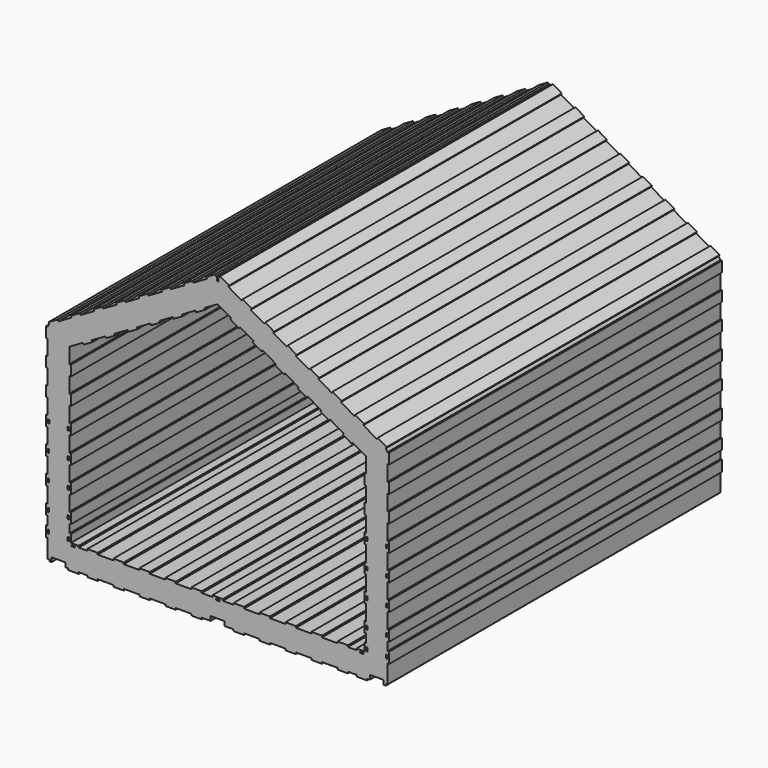
from build123d import *

# Parameters (mm, degrees)
F0_W     = 18
F0_H     = 40
F0_W_2   = 40
F0_H_2   = 13.258119
F0_W_3   = 19.326059
F1_DEPTH = 4800


with BuildPart() as f1:
    # F0 (on Front) → F1 (new body)
    with BuildSketch(Plane.XZ):
        Polygon((-357.766, -101.576782), (-357.766, -201.576782), (-375.766, -201.576782), (-375.766, -327.347782), (-357.766, -327.347782), (-357.766, -541.342782), (-337.766, -541.342782), (-337.766, -559.342782), (-312.766, -559.342782), (-312.766, -509.342782), (-152.766, -509.342782), (-152.766, -559.342782), (-120, -559.342782), (-120, -577.342782), (0, -577.342782), (0, -559.342782), (100, -559.342782), (100, -577.342782), (220, -577.342782), (220, -559.342782), (400, -559.342782), (400, -577.342782), (520, -577.342782), (520, -559.342782), (700, -559.342782), (700, -577.342782), (820, -577.342782), (820, -559.342782), (1000, -559.342782), (1000, -577.342782), (1120, -577.342782), (1120, -559.342782), (1300, -559.342782), (1300, -577.342782), (1420, -577.342782), (1420, -559.342782), (1523.32, -559.342782), (1523.32, -509.342782), (1603.318, -509.342782), (1683.316, -509.342782), (1683.316, -559.342782), (1786.636, -559.342782), (1786.636, -577.342782), (1906.636, -577.342782), (1906.636, -559.342782), (2086.636, -559.342782), (2086.636, -577.342782), (2206.636, -577.342782), (2206.636, -559.342782), (2386.636, -559.342782), (2386.636, -577.342782), (2506.636, -577.342782), (2506.636, -559.342782), (2686.636, -559.342782), (2686.636, -577.342782), (2806.636, -577.342782), (2806.636, -559.342782), (2986.636, -559.342782), (2986.636, -577.342782), (3106.636, -577.342782), (3106.636, -559.342782), (3206.636, -559.342782), (3206.636, -577.342782), (3326.636, -577.342782), (3326.636, -559.342782), (3359.402, -559.342782), (3359.402, -509.342782), (3519.402, -509.342782), (3519.402, -559.342782), (3544.402, -559.342782), (3544.402, -541.342782), (3564.402, -541.342782), (3564.402, -327.347782), (3582.402, -327.347782), (3582.402, -201.576782), (3564.402, -201.576782), (3564.402, -101.576782), (3582.402, -101.576782), (3582.402, 18.423218), (3564.402, 18.423218), (3564.402, 198.423218), (3582.402, 198.423218), (3582.402, 318.423218), (3564.402, 318.423218), (3564.402, 498.423218), (3582.402, 498.423218), (3582.402, 618.423218), (3564.402, 618.423218), (3564.402, 798.423218), (3582.402, 798.423218), (3582.402, 918.423218), (3564.402, 918.423218), (3564.402, 1098.423218), (3582.402, 1098.423218), (3582.402, 1218.423218), (3564.402, 1218.423218), (3564.402, 1398.423218), (3582.402, 1398.423218), (3582.402, 1518.423218), (3564.402, 1518.423218), (3564.402, 1698.423218), (3582.402, 1698.423218), (3582.402, 1818.423218), (3564.402, 1818.423218), (3545.147436, 1851.768334), (3554.147125, 1867.356971), (3450.222881, 1927.354899), (3441.223191, 1911.766263), (3285.336825, 2001.763155), (3294.336514, 2017.351792), (3190.41227, 2077.349721), (3181.41258, 2061.761084), (3025.526214, 2151.757977), (3034.525903, 2167.346614), (2930.601659, 2227.344542), (2921.60197, 2211.755906), (2765.715603, 2301.752798), (2774.715292, 2317.341435), (2670.791048, 2377.339364), (2661.791359, 2361.750727), (2505.904992, 2451.74762), (2514.904681, 2467.336257), (2410.980437, 2527.334185), (2401.980748, 2511.745549), (2246.094381, 2601.742441), (2255.094071, 2617.331078), (2151.169826, 2677.329007), (2142.170137, 2661.74037), (1986.28377, 2751.737263), (1995.28346, 2767.3259), (1891.359215, 2827.323828), (1882.359526, 2811.735192), (1726.47316, 2901.732084), (1735.472849, 2917.320721), (1631.548604, 2977.31865), (1622.548915, 2961.730013), (1612.301119, 2967.646309), (1612.301119, 2917.651309), (1603.334881, 2917.651309), (1603.301119, 2917.651309), (1594.334881, 2917.651309), (1594.334881, 2967.646309), (1584.087085, 2961.730013), (1575.087396, 2977.31865), (1471.163151, 2917.320721), (1480.16284, 2901.732084), (1324.276474, 2811.735192), (1315.276785, 2827.323828), (1211.35254, 2767.3259), (1220.35223, 2751.737263), (1064.465863, 2661.74037), (1055.466174, 2677.329007), (951.541929, 2617.331078), (960.541619, 2601.742441), (804.655252, 2511.745549), (795.655563, 2527.334185), (691.731319, 2467.336257), (700.731008, 2451.74762), (544.844641, 2361.750727), (535.844952, 2377.339364), (431.920708, 2317.341435), (440.920397, 2301.752798), (285.03403, 2211.755906), (276.034341, 2227.344542), (172.110097, 2167.346614), (181.109786, 2151.757977), (25.22342, 2061.761084), (16.22373, 2077.349721), (-87.700514, 2017.351792), (-78.700825, 2001.763155), (-234.587191, 1911.766263), (-243.586881, 1927.354899), (-347.511125, 1867.356971), (-338.511436, 1851.768334), (-357.766, 1818.423218), (-375.766, 1818.423218), (-375.766, 1698.423218), (-357.766, 1698.423218), (-357.766, 1518.423218), (-375.766, 1518.423218), (-375.766, 1398.423218), (-357.766, 1398.423218), (-357.766, 1218.423218), (-375.766, 1218.423218), (-375.766, 1098.423218), (-357.766, 1098.423218), (-357.766, 918.423218), (-375.766, 918.423218), (-375.766, 798.423218), (-357.766, 798.423218), (-357.766, 618.423218), (-375.766, 618.423218), (-375.766, 498.423218), (-357.766, 498.423218), (-357.766, 318.423218), (-375.766, 318.423218), (-375.766, 198.423218), (-357.766, 198.423218), (-357.766, 18.423218), (-375.766, 18.423218), (-375.766, -101.576782), align=None)
        with Locations((-348.766, -261.576782)):
            Rectangle(F0_W, F0_H, mode=Mode.SUBTRACT)
        with Locations((-60, -315.971841)):
            Rectangle(F0_W_2, F0_H_2, mode=Mode.SUBTRACT)
        with Locations((-116.766, -261.576782)):
            Rectangle(F0_W, F0_H, mode=Mode.SUBTRACT)
        with Locations((-348.766, -41.576782)):
            Rectangle(F0_W, F0_H, mode=Mode.SUBTRACT)
        with Locations((-116.766, -41.576782)):
            Rectangle(F0_W, F0_H, mode=Mode.SUBTRACT)
        with Locations((-348.766, 258.423218)):
            Rectangle(F0_W, F0_H, mode=Mode.SUBTRACT)
        with Locations((-116.766, 258.423218)):
            Rectangle(F0_W, F0_H, mode=Mode.SUBTRACT)
        with Locations((-348.766, 558.423218)):
            Rectangle(F0_W, F0_H, mode=Mode.SUBTRACT)
        with Locations((-116.766, 558.423218)):
            Rectangle(F0_W, F0_H, mode=Mode.SUBTRACT)
        with Locations((-348.10297, 858.423218)):
            Rectangle(F0_W_3, F0_H, mode=Mode.SUBTRACT)
        with Locations((-116.766, 858.423218)):
            Rectangle(F0_W, F0_H, mode=Mode.SUBTRACT)
        Polygon((1583.318, -327.342782), (1583.318, -309.342782), (1603.318, -309.342782), (1623.318, -309.342782), (1623.318, -327.342782), (1603.318, -327.342782), align=None, mode=Mode.SUBTRACT)
        with Locations((3266.636, -315.971841)):
            Rectangle(F0_W_2, F0_H_2, mode=Mode.SUBTRACT)
        with Locations((3323.402, -261.576782)):
            Rectangle(F0_W, F0_H, mode=Mode.SUBTRACT)
        with Locations((3555.402, -261.576782)):
            Rectangle(F0_W, F0_H, mode=Mode.SUBTRACT)
        with Locations((3323.402, -41.576782)):
            Rectangle(F0_W, F0_H, mode=Mode.SUBTRACT)
        with Locations((3555.402, -41.576782)):
            Rectangle(F0_W, F0_H, mode=Mode.SUBTRACT)
        with Locations((3323.402, 258.423218)):
            Rectangle(F0_W, F0_H, mode=Mode.SUBTRACT)
        with Locations((3555.402, 258.423218)):
            Rectangle(F0_W, F0_H, mode=Mode.SUBTRACT)
        Polygon((-89.766, -291.342782), (-89.766, -201.576782), (-107.766, -201.576782), (-107.766, -101.576782), (-89.766, -101.576782), (-89.766, 18.423218), (-107.766, 18.423218), (-107.766, 198.423218), (-89.766, 198.423218), (-89.766, 318.423218), (-107.766, 318.423218), (-107.766, 498.423218), (-89.766, 498.423218), (-89.766, 618.423218), (-107.766, 618.423218), (-107.766, 798.423218), (-89.766, 798.423218), (-89.766, 918.423218), (-107.766, 918.423218), (-107.766, 1098.423218), (-89.766, 1098.423218), (-89.766, 1218.423218), (-107.766, 1218.423218), (-107.766, 1398.423218), (-89.766, 1398.423218), (-89.766, 1518.423218), (-107.766, 1518.423218), (-107.766, 1696.311328), (46.29486, 1785.254313), (55.294549, 1769.665676), (159.218793, 1829.663605), (150.219104, 1845.252242), (306.105471, 1935.249135), (315.10516, 1919.660498), (419.029404, 1979.658426), (410.029715, 1995.247063), (565.916082, 2085.243956), (574.915771, 2069.655319), (678.840015, 2129.653248), (669.840326, 2145.241885), (825.726692, 2235.238778), (834.726382, 2219.650141), (938.650626, 2279.648069), (929.650937, 2295.236706), (1085.537303, 2385.233599), (1094.536993, 2369.644962), (1198.461237, 2429.642891), (1189.461548, 2445.231528), (1345.347914, 2535.228421), (1354.347603, 2519.639784), (1458.271848, 2579.637713), (1449.272159, 2595.226349), (1603.318, 2684.160663), (1757.363841, 2595.226349), (1748.364152, 2579.637713), (1852.288397, 2519.639784), (1861.288086, 2535.228421), (2017.174452, 2445.231528), (2008.174763, 2429.642891), (2112.099007, 2369.644962), (2121.098697, 2385.233599), (2276.985063, 2295.236706), (2267.985374, 2279.648069), (2371.909618, 2219.650141), (2380.909308, 2235.238778), (2536.795674, 2145.241885), (2527.795985, 2129.653248), (2631.720229, 2069.655319), (2640.719918, 2085.243956), (2796.606285, 1995.247063), (2787.606596, 1979.658426), (2891.53084, 1919.660498), (2900.530529, 1935.249135), (3056.416896, 1845.252242), (3047.417207, 1829.663605), (3151.341451, 1769.665676), (3160.34114, 1785.254313), (3314.402, 1696.311328), (3314.402, 1518.423218), (3296.402, 1518.423218), (3296.402, 1398.423218), (3314.402, 1398.423218), (3314.402, 1218.423218), (3296.402, 1218.423218), (3296.402, 1098.423218), (3314.402, 1098.423218), (3314.402, 918.423218), (3296.402, 918.423218), (3296.402, 798.423218), (3314.402, 798.423218), (3314.402, 618.423218), (3296.402, 618.423218), (3296.402, 498.423218), (3314.402, 498.423218), (3314.402, 318.423218), (3296.402, 318.423218), (3296.402, 198.423218), (3314.402, 198.423218), (3314.402, 18.423218), (3296.402, 18.423218), (3296.402, -101.576782), (3314.402, -101.576782), (3314.402, -201.576782), (3296.402, -201.576782), (3296.402, -291.342782), (3206.636, -291.342782), (3206.636, -309.342782), (3106.636, -309.342782), (3106.636, -291.342782), (2986.636, -291.342782), (2986.636, -309.342782), (2806.636, -309.342782), (2806.636, -291.342782), (2686.636, -291.342782), (2686.636, -309.342782), (2506.636, -309.342782), (2506.636, -291.342782), (2386.636, -291.342782), (2386.636, -309.342782), (2206.636, -309.342782), (2206.636, -291.342782), (2086.636, -291.342782), (2086.636, -309.342782), (1906.636, -309.342782), (1906.636, -291.342782), (1786.636, -291.342782), (1786.636, -309.342782), (1663.318, -309.342782), (1663.318, -291.342782), (1603.318, -291.342782), (1543.318, -291.342782), (1543.318, -309.342782), (1420, -309.342782), (1420, -291.342782), (1300, -291.342782), (1300, -309.342782), (1120, -309.342782), (1120, -291.342782), (1000, -291.342782), (1000, -309.342782), (820, -309.342782), (820, -291.342782), (700, -291.342782), (700, -309.342782), (520, -309.342782), (520, -291.342782), (400, -291.342782), (400, -309.342782), (220, -309.342782), (220, -291.342782), (100, -291.342782), (100, -309.342782), (0, -309.342782), (0, -291.342782), align=None, mode=Mode.SUBTRACT)
        with Locations((3323.402, 558.423218)):
            Rectangle(F0_W, F0_H, mode=Mode.SUBTRACT)
        with Locations((3555.402, 558.423218)):
            Rectangle(F0_W, F0_H, mode=Mode.SUBTRACT)
        with Locations((3323.402, 858.423218)):
            Rectangle(F0_W, F0_H, mode=Mode.SUBTRACT)
        with Locations((3554.738971, 858.423218)):
            Rectangle(F0_W_3, F0_H, mode=Mode.SUBTRACT)
    extrude(amount=F1_DEPTH)


solid = f1.part
